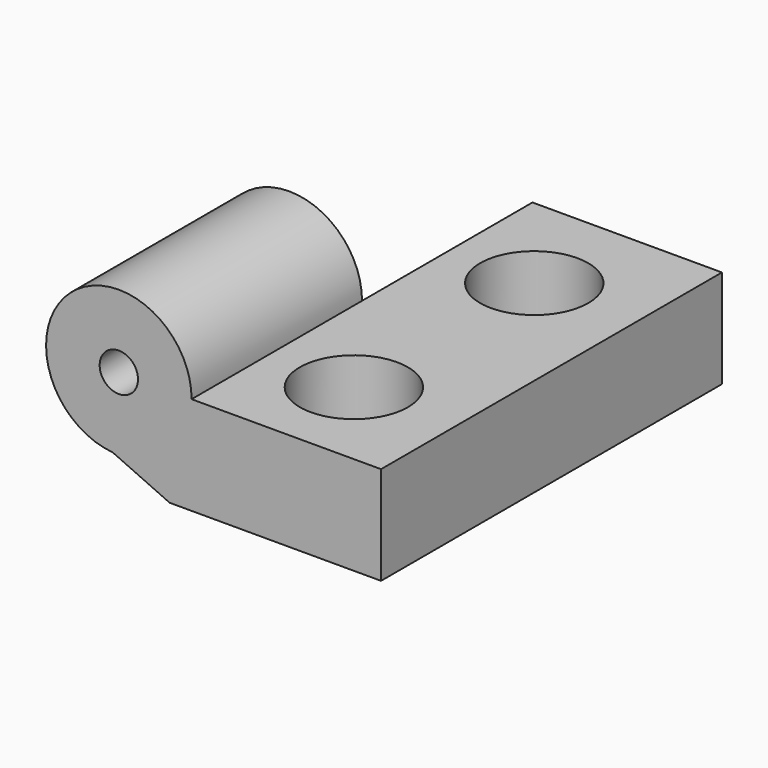
from build123d import *

# Parameters (mm, degrees)
F0_W           = 16
F0_H           = 13
F0_R           = 1.65
F1_DEPTH       = 3
F2_R           = 2.2197148543
F3_DEPTH       = 13
F4_R           = 0.585
F5_DEPTH       = 25
F7_DEPTH       = 25
F9_DEPTH       = 13
F10_W          = 7.79368474
F10_H          = 8.6547567695
F11_DEPTH      = 25
F11_DEPTH_BACK = 25


with BuildPart() as f1:
    # F0 (on Top) → F1 (new body)
    with BuildSketch(Plane.XY):
        with Locations((8, 6.5)):
            Rectangle(F0_W, F0_H)
        with Locations((3.1225297134, 2.8979986639)):
            Circle(F0_R, mode=Mode.SUBTRACT)
        with Locations((12.8527397134, 2.8979986639)):
            Circle(F0_R, mode=Mode.SUBTRACT)
        with Locations((3.1225297134, 9.7759086639)):
            Circle(F0_R, mode=Mode.SUBTRACT)
        with Locations((12.8527397134, 9.7759086639)):
            Circle(F0_R, mode=Mode.SUBTRACT)
    extrude(amount=F1_DEPTH)

    # F2 (on face) → F3 (join, through all)
    with BuildSketch(Plane(origin=(0, 13, 0), x_dir=(-1, 0, 0), z_dir=(0, 1, 0))):
        with Locations((-8, 3)):
            Circle(F2_R)
    extrude(amount=-F3_DEPTH)

    # F4 (on face) → F5 (cut)
    with BuildSketch(Plane(origin=(0, 13, 0), x_dir=(-1, 0, 0), z_dir=(0, 1, 0))):
        with Locations((-8, 3)):
            Circle(F4_R)
        Polygon((-8, 0.8955585654), (-9.5511529364, 0), (-6.4488470636, 0), align=None)
    extrude(amount=-F5_DEPTH, mode=Mode.SUBTRACT)

    # F6 (on face) → F7 (cut)
    with BuildSketch(Plane(origin=(0, 13, 0), x_dir=(-1, 0, 0), z_dir=(0, 1, 0))):
        with BuildLine():
            ThreePointArc((-5.7802851457, 3), (-6.4976685136, 1.3659454907), (-8.1861204126, 0.7881018951))
            Line((-8.1861204126, 0.7881018951), (-9.5511529364, 0))
            Line((-9.5511529364, 0), (0, -1.0680041742))
            Line((0, -1.0680041742), (0, 3))
            Line((0, 3), (-5.7802851457, 3))
        make_face()
    extrude(amount=-F7_DEPTH, mode=Mode.SUBTRACT)

    # F8 (on face) → F9 (join, through all)
    with BuildSketch(Plane(origin=(0, 13, 0), x_dir=(-1, 0, 0), z_dir=(0, 1, 0))):
        Polygon((-8, 0.8955585654), (-9.5511529364, 0), (-7.8138795874, 0.7881018951), align=None)
    extrude(amount=-F9_DEPTH)

    # F10 (on face) → F11 (cut, two sides)
    with BuildSketch(Plane.XY.offset(3)) as f11_sk:
        with Locations((6.3228724843, 10.8273783848)):
            Rectangle(F10_W, F10_H)
    extrude(amount=-F11_DEPTH, mode=Mode.SUBTRACT)
    extrude(f11_sk.sketch, amount=F11_DEPTH_BACK, mode=Mode.SUBTRACT)


solid = f1.part
